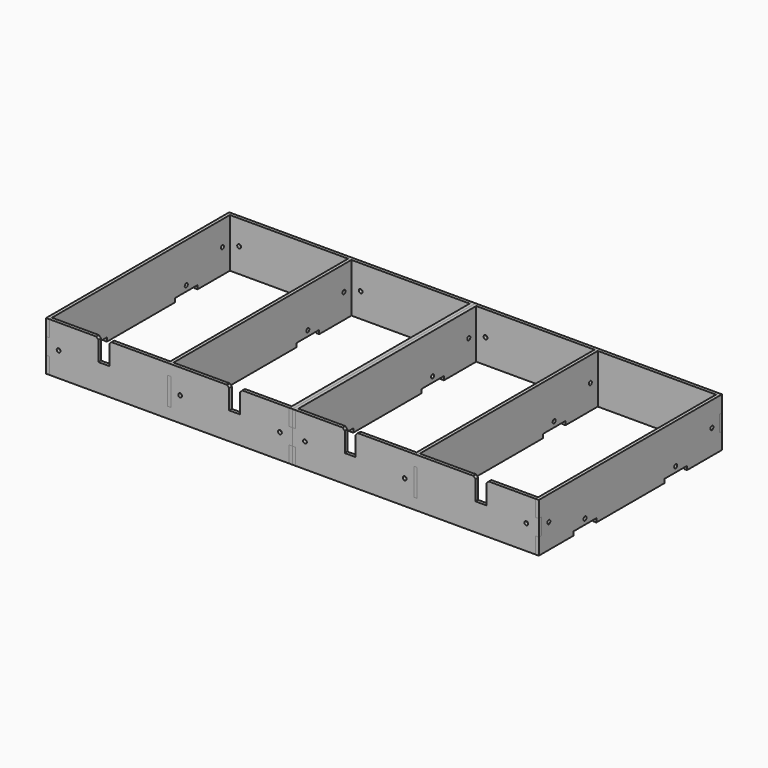
from build123d import *

# Parameters (mm, degrees)
F0_R          = 1.75
F1_DEPTH      = 1.5
F1_DEPTH_BACK = 1.5
F6_R          = 1.75
F7_DEPTH      = 1.5
F7_DEPTH_BACK = 1.5
F8_R          = 1.75
F8_W          = 3
F8_H          = 25
F9_DEPTH      = 3
F12_DEPTH     = 3


with BuildPart() as f1:
    # F0 (on Right) → F1 (new body, two sides)
    with BuildSketch(Plane.YZ) as f1_sk:
        Polygon((-105, 15), (-105, 0), (-65, 0), (-65, 3.5), (-39, 3.5), (-39, 0), (39, 0), (39, 3.5), (65, 3.5), (65, 0), (105, 0), (105, 15), (102, 15), (102, 30), (105, 30), (105, 45), (-105, 45), (-105, 30), (-102, 30), (-102, 15), align=None)
        with Locations((-52, 8.5)):
            Circle(F0_R, mode=Mode.SUBTRACT)
        with Locations((52, 8.5)):
            Circle(F0_R, mode=Mode.SUBTRACT)
        with Locations((-93.5, 22.5)):
            Circle(F0_R, mode=Mode.SUBTRACT)
        with Locations((93.5, 22.5)):
            Circle(F0_R, mode=Mode.SUBTRACT)
    extrude(amount=F1_DEPTH)
    extrude(f1_sk.sketch, amount=-F1_DEPTH_BACK)


with BuildPart() as f2_1:
    # F2: copy of F1
    add(f1.part.moved(Location((111.5, 0, 0))))


with BuildPart() as f3_1:
    # F3: copy of F1
    add(f1.part.moved(Location((-111.5, 0, 0))))


with BuildPart() as f4_1:
    # F4: copy of F1
    add(f1.part)


with BuildPart() as f7:
    # F6 (on Right) → F7 (new body, two sides)
    with BuildSketch(Plane.YZ) as f7_sk:
        Polygon((-102, 10), (-102, 0), (-65, 0), (-65, 3.5), (-39, 3.5), (-39, 0), (39, 0), (39, 3.5), (65, 3.5), (65, 0), (102, 0), (102, 10), (105, 10), (105, 35), (102, 35), (102, 45), (-102, 45), (-102, 35), (-105, 35), (-105, 10), align=None)
        with Locations((-52, 8.5)):
            Circle(F6_R, mode=Mode.SUBTRACT)
        with Locations((52, 8.5)):
            Circle(F6_R, mode=Mode.SUBTRACT)
        with Locations((-93.5, 22.5)):
            Circle(F6_R, mode=Mode.SUBTRACT)
        with Locations((93.5, 22.5)):
            Circle(F6_R, mode=Mode.SUBTRACT)
    extrude(amount=F7_DEPTH)
    extrude(f7_sk.sketch, amount=-F7_DEPTH_BACK)


with BuildPart() as f9:
    # F8 (on face) → F9 (new body)
    with BuildSketch(Plane.XZ.offset(102)):
        Polygon((110, 30), (110, 45), (-110, 45), (-110, 30), (-113, 30), (-113, 15), (-110, 15), (-110, 0), (110, 0), (110, 15), (113, 15), (113, 30), align=None)
        with Locations((-101.5, 22.5)):
            Circle(F8_R, mode=Mode.SUBTRACT)
        with Locations((0, 22.5)):
            Rectangle(F8_W, F8_H, mode=Mode.SUBTRACT)
        with Locations((10, 22.5)):
            Circle(F8_R, mode=Mode.SUBTRACT)
        with Locations((101.5, 22.5)):
            Circle(F8_R, mode=Mode.SUBTRACT)
    extrude(amount=F9_DEPTH)


with BuildPart() as f10_1:
    # F10: copy of F9
    add(f9.part.moved(Location((0, 207, 0))))


with BuildPart() as f9_1:
    add(f9.part)

    # F11 (on face) → F12 (cut, through all)
    with BuildSketch(Plane.XZ.offset(105)):
        Polygon((-55, 45), (-65, 45), (-67, 45), (-65, 43), (-65, 25), (-55, 25), (-55, 43), (-53, 45), align=None)
        Polygon((67, 45), (65, 45), (55, 45), (53, 45), (55, 43), (55, 25), (65, 25), (65, 43), align=None)
    extrude(amount=-F12_DEPTH, mode=Mode.SUBTRACT)


with BuildPart() as f13_1:
    # F13: instance of F2_1
    add(f2_1.part.mirror(Plane(origin=(113, 0, 22.9426811875), x_dir=(0, 1, 0), z_dir=(1, 0, 0))))


with BuildPart() as f13_2:
    # F13: instance of F3_1
    add(f3_1.part.mirror(Plane(origin=(113, 0, 22.9426811875), x_dir=(0, 1, 0), z_dir=(1, 0, 0))))


with BuildPart() as f13_3:
    # F13: instance of F7
    add(f7.part.mirror(Plane(origin=(113, 0, 22.9426811875), x_dir=(0, 1, 0), z_dir=(1, 0, 0))))


with BuildPart() as f13_4:
    # F13: instance of F9
    add(f9_1.part.mirror(Plane(origin=(113, 0, 22.9426811875), x_dir=(0, 1, 0), z_dir=(1, 0, 0))))


with BuildPart() as f13_5:
    # F13: instance of F10_1
    add(f10_1.part.mirror(Plane(origin=(113, 0, 22.9426811875), x_dir=(0, 1, 0), z_dir=(1, 0, 0))))


solid = Compound([f1.part, f2_1.part, f3_1.part, f7.part, f10_1.part, f9_1.part, f13_1.part, f13_2.part, f13_3.part, f13_4.part, f13_5.part])
